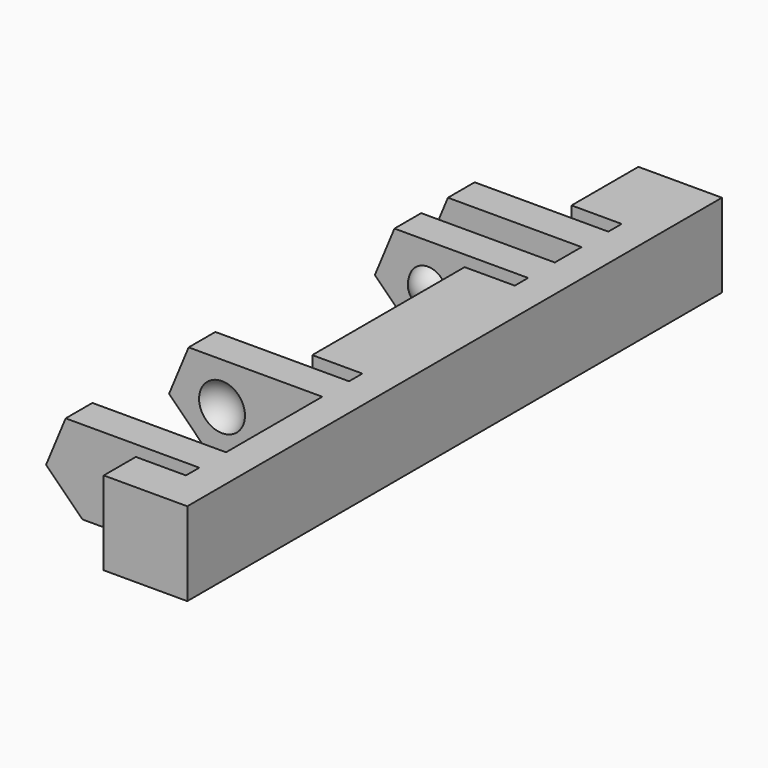
from build123d import *

# Parameters (mm, degrees)
BOX105_W               = 12
BOX105_H               = 44
BOX105_DEPTH           = 10
BOX101_W               = 4
BOX101_H               = 1
BOX101_DEPTH           = 7
BOX103_W               = 4
BOX103_H               = 1
BOX103_DEPTH           = 7
BOX100_W               = 4
BOX100_H               = 2
BOX100_DEPTH           = 7
BOX102_W               = 4
BOX102_H               = 1
BOX102_DEPTH           = 7
BOX099_W               = 4
BOX099_H               = 1
BOX099_DEPTH           = 7
BOX104_W               = 4
BOX104_H               = 7.2
BOX104_DEPTH           = 7
BOX098_W               = 13
BOX098_H               = 40
BOX098_DEPTH           = 10
BOX098_PLACEMENT_ANGLE = 45
BOX094_W               = 10
BOX094_H               = 2
BOX094_DEPTH           = 7
BOX095_W               = 10
BOX095_H               = 2
BOX095_DEPTH           = 7
BOX096_W               = 10
BOX096_H               = 2
BOX096_DEPTH           = 7
BOX097_W               = 10
BOX097_H               = 2
BOX097_DEPTH           = 7
BOX093_W               = 5
BOX093_H               = 40
BOX093_DEPTH           = 7
CHAMFER009_SIZE        = 4
CUT027_PLACEMENT_ANGLE = 180


with BuildPart() as cube089:
    # Box105 → Box105 (new body)
    with BuildSketch(Plane(origin=(-11, -2, -12), x_dir=(1, 0, 0), z_dir=(0, 0, 1))):
        with Locations((6, 22)):
            Rectangle(BOX105_W, BOX105_H)
    extrude(amount=BOX105_DEPTH)


with BuildPart() as cube085:
    # Box101 → Box101 (new body)
    with BuildSketch(Plane(origin=(-1, 12, 0), x_dir=(1, 0, 0), z_dir=(0, 0, 1))):
        with Locations((2, 0.5)):
            Rectangle(BOX101_W, BOX101_H)
    extrude(amount=BOX101_DEPTH)


with BuildPart() as cube087:
    # Box103 → Box103 (new body)
    with BuildSketch(Plane(origin=(-1, 36.6, 0), x_dir=(1, 0, 0), z_dir=(0, 0, 1))):
        with Locations((2, 0.5)):
            Rectangle(BOX103_W, BOX103_H)
    extrude(amount=BOX103_DEPTH)


with BuildPart() as cube084:
    # Box100 → Box100 (new body)
    with BuildSketch(Plane(origin=(-1, 8, 0), x_dir=(1, 0, 0), z_dir=(0, 0, 1))):
        with Locations((2, 1)):
            Rectangle(BOX100_W, BOX100_H)
    extrude(amount=BOX100_DEPTH)


with BuildPart() as cube086:
    # Box102 → Box102 (new body)
    with BuildSketch(Plane(origin=(-1, 24.4, 0), x_dir=(1, 0, 0), z_dir=(0, 0, 1))):
        with Locations((2, 0.5)):
            Rectangle(BOX102_W, BOX102_H)
    extrude(amount=BOX102_DEPTH)


with BuildPart() as cube083:
    # Box099 → Box099 (new body)
    with BuildSketch(Plane(origin=(-1, 5, 0), x_dir=(1, 0, 0), z_dir=(0, 0, 1))):
        with Locations((2, 0.5)):
            Rectangle(BOX099_W, BOX099_H)
    extrude(amount=BOX099_DEPTH)


with BuildPart() as fusion033:
    # Box104 → Box104 (new body)
    with BuildSketch(Plane(origin=(-1, 27.4, 0), x_dir=(1, 0, 0), z_dir=(0, 0, 1))):
        with Locations((2, 3.6)):
            Rectangle(BOX104_W, BOX104_H)
    extrude(amount=BOX104_DEPTH)

    # Fusion033: union Cube085, Cube087, Cube084, Cube086, Cube083
    add(cube085.part)
    add(cube087.part)
    add(cube084.part)
    add(cube086.part)
    add(cube083.part)


with BuildPart() as sphere037:
    # Sphere037 → Sphere037 (revolve)
    with BuildSketch(Plane(origin=(-3, 28, 2.5), x_dir=(1, 0, 0), z_dir=(0, -1, 0))):
        with BuildLine():
            ThreePointArc((0, -1.5), (1.5, 0), (0, 1.5))
            Line((0, 1.5), (0, -1.5))
        make_face()
    revolve(axis=Axis((-3, 28, 2.5), (0, 0, 1)))


with BuildPart() as fusion032:
    # Sphere038 → Sphere038 (revolve)
    with BuildSketch(Plane(origin=(-3, 34, 2.5), x_dir=(1, 0, 0), z_dir=(0, -1, 0))):
        with BuildLine():
            ThreePointArc((0, -1.5), (1.5, 0), (0, 1.5))
            Line((0, 1.5), (0, -1.5))
        make_face()
    revolve(axis=Axis((-3, 34, 2.5), (0, 0, 1)))

    # Fusion032: union Sphere037
    add(sphere037.part)


with BuildPart() as sphere036:
    # Sphere036 → Sphere036 (revolve)
    with BuildSketch(Plane(origin=(-3, 11.5, 2.5), x_dir=(1, 0, 0), z_dir=(0, -1, 0))):
        with BuildLine():
            ThreePointArc((0, -1.25), (1.25, 0), (0, 1.25))
            Line((0, 1.25), (0, -1.25))
        make_face()
    revolve(axis=Axis((-3, 11.5, 2.5), (0, 0, 1)))


with BuildPart() as cube082:
    # Box098 → Box098 (new body)
    with BuildSketch(Plane.XY):
        with Locations((6.5, 20)):
            Rectangle(BOX098_W, BOX098_H)
    extrude(amount=BOX098_DEPTH)


with BuildPart() as cube082_1:
    # Box098 placement: moved
    add(cube082.part.moved(Location((-10.19, 0, -1.19))).rotate(Axis((-10.19, 0, -1.19), (0, -1, 0)), BOX098_PLACEMENT_ANGLE))


with BuildPart() as cube078:
    # Box094 → Box094 (new body)
    with BuildSketch(Plane(origin=(-10, 6, 0), x_dir=(1, 0, 0), z_dir=(0, 0, 1))):
        with Locations((5, 1)):
            Rectangle(BOX094_W, BOX094_H)
    extrude(amount=BOX094_DEPTH)


with BuildPart() as cube079:
    # Box095 → Box095 (new body)
    with BuildSketch(Plane(origin=(-10, 10, 0), x_dir=(1, 0, 0), z_dir=(0, 0, 1))):
        with Locations((5, 1)):
            Rectangle(BOX095_W, BOX095_H)
    extrude(amount=BOX095_DEPTH)


with BuildPart() as cube080:
    # Box096 → Box096 (new body)
    with BuildSketch(Plane(origin=(-10, 25.4, 0), x_dir=(1, 0, 0), z_dir=(0, 0, 1))):
        with Locations((5, 1)):
            Rectangle(BOX096_W, BOX096_H)
    extrude(amount=BOX096_DEPTH)


with BuildPart() as cube081:
    # Box097 → Box097 (new body)
    with BuildSketch(Plane(origin=(-10, 34.6, 0), x_dir=(1, 0, 0), z_dir=(0, 0, 1))):
        with Locations((5, 1)):
            Rectangle(BOX097_W, BOX097_H)
    extrude(amount=BOX097_DEPTH)


with BuildPart() as cut025:
    # Box093 → Box093 (new body)
    with BuildSketch(Plane.XY):
        with Locations((2.5, 20)):
            Rectangle(BOX093_W, BOX093_H)
    extrude(amount=BOX093_DEPTH)

    # Fusion030: union Cube078, Cube079, Cube080, Cube081
    add(cube078.part)
    add(cube079.part)
    add(cube080.part)
    add(cube081.part)

    # Cut025: cut Cube082
    add(cube082_1.part, mode=Mode.SUBTRACT)


with BuildPart() as cut028:
    # Sphere035 → Sphere035 (revolve)
    with BuildSketch(Plane(origin=(-3, 6.5, 2.5), x_dir=(1, 0, 0), z_dir=(0, -1, 0))):
        with BuildLine():
            ThreePointArc((0, -1.25), (1.25, 0), (0, 1.25))
            Line((0, 1.25), (0, -1.25))
        make_face()
    revolve(axis=Axis((-3, 6.5, 2.5), (0, 0, 1)))

    # Fusion031: union Sphere036, Cut025
    add(sphere036.part)
    add(cut025.part)

    # Cut026: cut Fusion032
    add(fusion032.part, mode=Mode.SUBTRACT)

    # Chamfer009
    chamfer009_edges = [cut028.edges().sort_by_distance(p)[0] for p in [
        (-9, 7, 0),
        (-9, 11, 0),
        (-9, 35.6, 0),
        (-9, 26.4, 0),
    ]]
    chamfer(chamfer009_edges, length=CHAMFER009_SIZE)

    # Cut027: cut Fusion033
    add(fusion033.part, mode=Mode.SUBTRACT)


with BuildPart() as cut028_1:
    # Cut027 placement: moved
    add(cut028.part.moved(Location((-5, 40, 3))).rotate(Axis((-5, 40, 3), (1, 0, 0)), CUT027_PLACEMENT_ANGLE))

    # Cut028: cut Cube089
    add(cube089.part, mode=Mode.SUBTRACT)


solid = cut028_1.part
